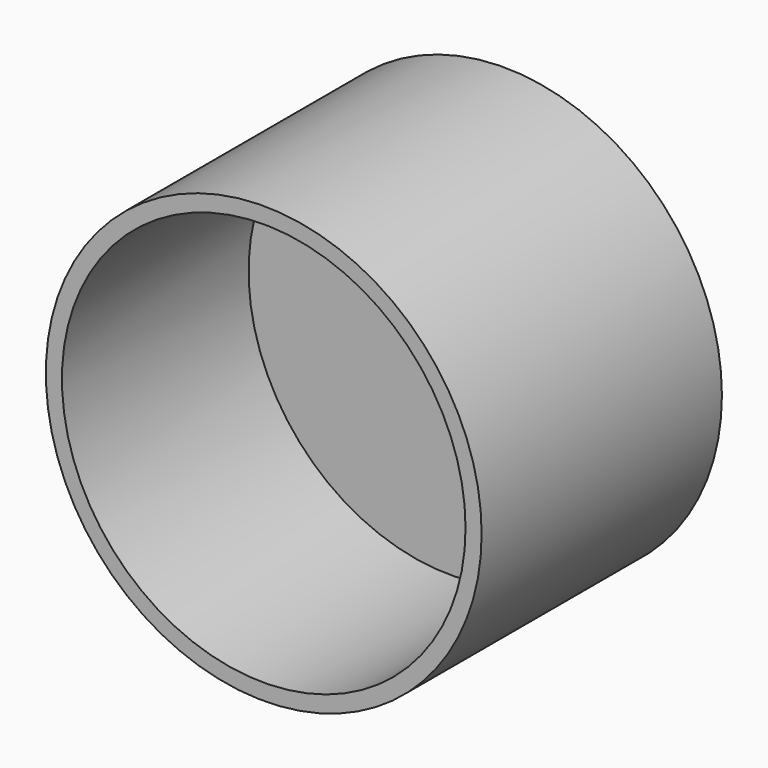
from build123d import *

# Parameters (mm, degrees)
F0_R     = 32.5
F0_R_2   = 30.1
F1_DEPTH = 44.8
F2_R     = 30.1
F2_R_2   = 5
F3_DEPTH = 10


with BuildPart() as f1:
    # F0 (on Front) → F1 (new body)
    with BuildSketch(Plane.XZ):
        Circle(F0_R)
        Circle(F0_R_2, mode=Mode.SUBTRACT)
    extrude(amount=F1_DEPTH)

    # F2 (on Front) → F3 (join)
    with BuildSketch(Plane.XZ):
        Circle(F2_R)
        Circle(F2_R_2, mode=Mode.SUBTRACT)
    extrude(amount=F3_DEPTH)


solid = f1.part
